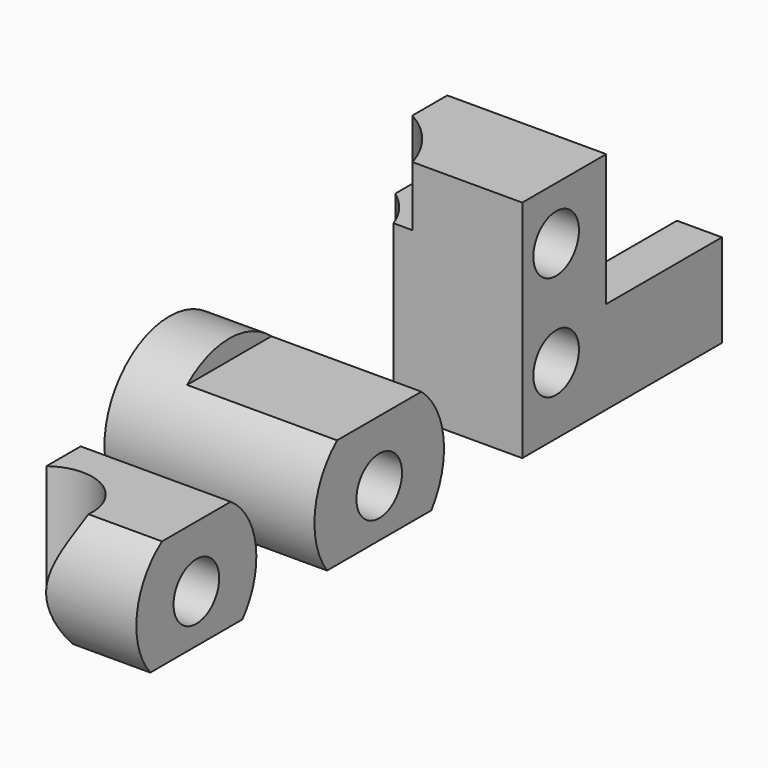
from build123d import *

# Parameters (mm, degrees)
BOX_W             = 3
BOX_H             = 10.7
BOX_DEPTH         = 6.2
CYLINDER012_R     = 1.9
CYLINDER012_DEPTH = 4.6
CYLINDER013_R     = 1.9
CYLINDER013_DEPTH = 4.6
CYLINDER014_R     = 1.9
CYLINDER014_DEPTH = 5.3
BOX005_W          = 14
BOX005_H          = 42.7
BOX005_DEPTH      = 13
CYLINDER015_R     = 0.7
CYLINDER015_DEPTH = 8
CYLINDER016_R     = 0.7
CYLINDER016_DEPTH = 8
CYLINDER011_R     = 1.9
CYLINDER011_DEPTH = 5.1
CYLINDER002_R     = 3.2
CYLINDER002_DEPTH = 12
CYLINDER004_R     = 5.8
CYLINDER004_DEPTH = 11.5
CYLINDER005_R     = 7
CYLINDER005_DEPTH = 5
BOX002_W          = 10
BOX002_H          = 30
BOX002_DEPTH      = 10
BOX003_W          = 15
BOX003_H          = 30
BOX003_DEPTH      = 10
BOX001_W          = 10.6
BOX001_H          = 7
BOX001_DEPTH      = 15
CYLINDER001_R     = 5
CYLINDER001_DEPTH = 10
CYLINDER003_R     = 5.4
CYLINDER003_DEPTH = 14


with BuildPart() as cube:
    # Box → Box (new body)
    with BuildSketch(Plane(origin=(14.64, 18, 0), x_dir=(1, 0, 0), z_dir=(0, 0, 1))):
        with Locations((1.5, 5.35)):
            Rectangle(BOX_W, BOX_H)
    extrude(amount=BOX_DEPTH)


with BuildPart() as cylinder012:
    # Cylinder012 → Cylinder012 (new body)
    with BuildSketch(Plane(origin=(17.64, 14.885, 4.465), x_dir=(0, 0, 1), z_dir=(-1, 0, 0))):
        Circle(CYLINDER012_R)
    extrude(amount=CYLINDER012_DEPTH)


with BuildPart() as cylinder013:
    # Cylinder013 → Cylinder013 (new body)
    with BuildSketch(Plane(origin=(17.64, 14.885, 11.45), x_dir=(0, 0, 1), z_dir=(-1, 0, 0))):
        Circle(CYLINDER013_R)
    extrude(amount=CYLINDER013_DEPTH)


with BuildPart() as cylinder014:
    # Cylinder014 → Cylinder014 (new body)
    with BuildSketch(Plane(origin=(17.64, 0.14, 3.22), x_dir=(0, 0, 1), z_dir=(-1, 0, 0))):
        Circle(CYLINDER014_R)
    extrude(amount=CYLINDER014_DEPTH)


with BuildPart() as cube005:
    # Box005 → Box005 (new body)
    with BuildSketch(Plane(origin=(17.64, -22.73, 0), x_dir=(1, 0, 0), z_dir=(0, 0, 1))):
        with Locations((7, 21.35)):
            Rectangle(BOX005_W, BOX005_H)
    extrude(amount=BOX005_DEPTH)


with BuildPart() as cylinder015:
    # Cylinder015 → Cylinder015 (new body)
    with BuildSketch(Plane(origin=(17.64, 14.885, 4.465), x_dir=(0, 0, 1), z_dir=(-1, 0, 0))):
        Circle(CYLINDER015_R)
    extrude(amount=CYLINDER015_DEPTH)


with BuildPart() as cylinder016:
    # Cylinder016 → Cylinder016 (new body)
    with BuildSketch(Plane(origin=(17.64, 14.885, 11.45), x_dir=(0, 0, 1), z_dir=(-1, 0, 0))):
        Circle(CYLINDER016_R)
    extrude(amount=CYLINDER016_DEPTH)


with BuildPart() as fusion005:
    # Cylinder011 → Cylinder011 (new body)
    with BuildSketch(Plane(origin=(17.64, -15.1, 3.22), x_dir=(0, 0, 1), z_dir=(-1, 0, 0))):
        Circle(CYLINDER011_R)
    extrude(amount=CYLINDER011_DEPTH)

    # Fusion005: union Cylinder012, Cylinder013, Cylinder014, Cube005, Cylinder015, Cylinder016
    add(cylinder012.part)
    add(cylinder013.part)
    add(cylinder014.part)
    add(cube005.part)
    add(cylinder015.part)
    add(cylinder016.part)


with BuildPart() as cylinder002:
    # Cylinder002 → Cylinder002 (new body)
    with BuildSketch(Plane(origin=(9.55, -17.66, -3), x_dir=(1, 0, 0), z_dir=(0, 0, 1))):
        Circle(CYLINDER002_R)
    extrude(amount=CYLINDER002_DEPTH)


with BuildPart() as cylinder004:
    # Cylinder004 → Cylinder004 (new body)
    with BuildSketch(Plane(origin=(3.62, 10.05, 0), x_dir=(1, 0, 0), z_dir=(0, 0, 1))):
        Circle(CYLINDER004_R)
    extrude(amount=CYLINDER004_DEPTH)


with BuildPart() as cylinder005:
    # Cylinder005 → Cylinder005 (new body)
    with BuildSketch(Plane(origin=(3.62, 10.05, 11), x_dir=(1, 0, 0), z_dir=(0, 0, 1))):
        Circle(CYLINDER005_R)
    extrude(amount=CYLINDER005_DEPTH)


with BuildPart() as cube002:
    # Box002 → Box002 (new body)
    with BuildSketch(Plane(origin=(7.64, -21.3, 7.32), x_dir=(1, 0, 0), z_dir=(0, 0, 1))):
        with Locations((5, 15)):
            Rectangle(BOX002_W, BOX002_H)
    extrude(amount=BOX002_DEPTH)


with BuildPart() as fusion004:
    # Box003 → Box003 (new body)
    with BuildSketch(Plane(origin=(2.64, -21.3, -9.985), x_dir=(1, 0, 0), z_dir=(0, 0, 1))):
        with Locations((7.5, 15)):
            Rectangle(BOX003_W, BOX003_H)
    extrude(amount=BOX003_DEPTH)

    # Fusion004: union Cylinder002, Cylinder004, Cylinder005, Cube002
    add(cylinder002.part)
    add(cylinder004.part)
    add(cylinder005.part)
    add(cube002.part)


with BuildPart() as cube001:
    # Box001 → Box001 (new body)
    with BuildSketch(Plane(origin=(7.04, 12.06, 0), x_dir=(1, 0, 0), z_dir=(0, 0, 1))):
        with Locations((5.3, 3.5)):
            Rectangle(BOX001_W, BOX001_H)
    extrude(amount=BOX001_DEPTH)


with BuildPart() as cylinder001:
    # Cylinder001 → Cylinder001 (new body)
    with BuildSketch(Plane(origin=(17.64, -15.1, 3.22), x_dir=(0, 0, 1), z_dir=(-1, 0, 0))):
        Circle(CYLINDER001_R)
    extrude(amount=CYLINDER001_DEPTH)


with BuildPart() as fusion006:
    # Cylinder003 → Cylinder003 (new body)
    with BuildSketch(Plane(origin=(17.64, 0.14, 3.22), x_dir=(0, 0, 1), z_dir=(-1, 0, 0))):
        Circle(CYLINDER003_R)
    extrude(amount=CYLINDER003_DEPTH)

    # Fusion: union Cube001, Cylinder001
    add(cube001.part)
    add(cylinder001.part)

    # Cut: cut Fusion004
    add(fusion004.part, mode=Mode.SUBTRACT)

    # Cut001: cut Fusion005
    add(fusion005.part, mode=Mode.SUBTRACT)

    # Fusion006: union Cube
    add(cube.part)


solid = fusion006.part
